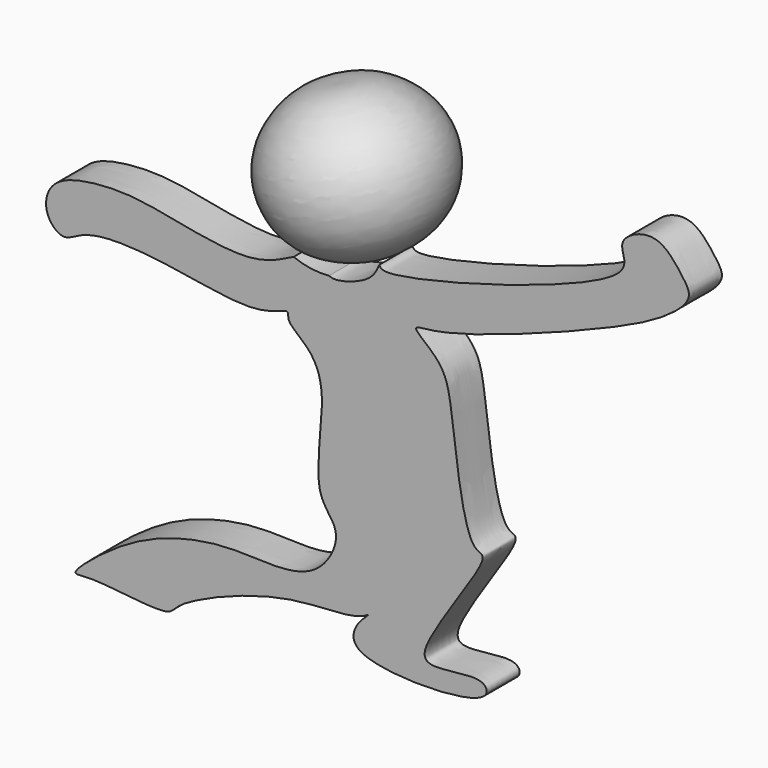
from build123d import *

# Parameters (mm, degrees)
F1_DEPTH = 5.08


with BuildPart() as f1:
    # F0 (on Front) → F1 (new body)
    with BuildSketch(Plane.XZ):
        with BuildLine():
            ThreePointArc((-4.8527362893, 6.3661059449), (-7.062491971, 6.4207185502), (-9.1974332994, 6.9934560415))
            add(Edge.make_bspline(
                [(-9.1974332994, 6.9934560415), (-10.847005278, 6.1528326348), (-14.7905032699, 4.1191135447), (-26.5262904196, 6.9678632721), (-32.214227317, 7.3090132542), (-39.1596533079, 6.2547355041), (-40.1685089723, 1.8483942469), (-37.6128174957, -0.6390182701), (-35.4082346717, 1.1063021348), (-30.7586106131, 1.8892990547), (-21.8589859777, 0.7283912673), (-13.523335543, -0.865974137), (-9.6109019944, 1.315033583), (-10.1460881903, -0.3293658258), (-7.0204940449, -2.2306880576), (-4.8763492574, -6.8728427332), (-7.3022490881, -17.9510720218), (-2.8081016335, -20.7749276487), (-6.3949963743, -27.9187228512), (-15.7506576261, -26.8657965374), (-21.9995301485, -27.5319104965), (-29.6140664479, -30.0258064595), (-37.4789522118, -36.5699769345), (-33.8194344707, -35.5919819147), (-24.3904713669, -37.290246322), (-23.6592695712, -34.8377226954), (-9.7677725452, -28.9551254759), (-2.1443038816, -30.1541082879), (0, -28.7910401821)],
                knots=[0, 0, 0, 0, 0.0376252181, 0.0899083465, 0.1285475121, 0.1667278379, 0.1957733512, 0.2210448034, 0.2441572455, 0.2767937683, 0.3236249421, 0.369664066, 0.3964393821, 0.4100304696, 0.4373207915, 0.4721874787, 0.5220554726, 0.5531735044, 0.59010284, 0.6355119463, 0.6742677382, 0.7200238526, 0.7626551231, 0.7833137326, 0.8302059942, 0.8523565013, 0.9104293819, 0.9591138008, 0.9591138008, 0.9591138008, 0.9591138008], degree=3))
            add(Edge.make_bspline(
                [(0, -28.7910401821), (-0.6320238373, -29.3935636391), (-1.8828971851, -30.5860511518), (-2.2043118764, -34.7675774808), (15.3095172071, -34.6185304895), (14.2859270709, -30.5259266972), (7.3526541903, -32.4785203875), (6.0958519982, -29.5778897986), (15.8136134381, -17.3380769477), (11.8302736825, -17.9063802927), (10.3380415282, -3.3771493941), (9.4058050637, 1.4312819379), (4.6780119149, 4.5229592705), (9.5487440661, 4.186650615), (29.2664615041, 11.4728957012), (36.9021436529, 15.3833970725), (39.9937433129, 18.4218064767), (38.6476136764, 20.5061985976), (35.988300402, 23.9317423083), (32.668527671, 23.2643682639), (31.0517833487, 21.861402529), (31.3715868556, 20.3830395825), (32.5282108323, 16.425420597), (2.2110574204, 7.854941582), (1.4589874384, 9.3227790656), (1.3374934133, 9.5606176896)],
                knots=[0, 0, 0, 0, 0.0308243512, 0.0610106525, 0.135804207, 0.15904469, 0.2071230233, 0.2337648366, 0.3051089289, 0.3274240931, 0.3981317114, 0.4452958266, 0.481392053, 0.5118301503, 0.6018498091, 0.6611286862, 0.695844353, 0.7236326364, 0.7625933577, 0.7960805785, 0.822467841, 0.8441477505, 0.8748120857, 0.9798344436, 1, 1, 1, 1], degree=3))
            add(Edge.make_bspline(
                [(1.3374934133, 9.5606176896), (1.0506332286, 8.9006738883), (0.3815469283, 7.3613896657), (-3.806836944, 5.9938011394), (-4.5923118626, 6.2734036538), (-4.8527362893, 6.3661059449)],
                knots=[0, 0, 0, 0, 0.3340750035, 0.779212383, 1, 1, 1, 1], degree=3))
        make_face()
    extrude(amount=F1_DEPTH)

    # F2 (on Front) → F3 (revolve)
    with BuildSketch(Plane.XZ):
        with BuildLine():
            Line((-2.9172545765, 6.714431569), (-7.9131918028, 24.402750656))
            add(Edge.make_bspline(
                [(-7.9131918028, 24.402750656), (-9.1005745109, 24.1015996763), (-11.693819365, 23.443885678), (-15.3023357122, 19.1571424332), (-16.0425021581, 13.8074018264), (-13.3950964307, 8.8810970298), (-8.7572236244, 6.5276564741), (-4.9189704204, 6.6504122799), (-2.9172545765, 6.714431569)],
                knots=[0, 0, 0, 0, 0.1445973923, 0.3158008289, 0.4854104403, 0.6553366822, 0.8202520815, 1, 1, 1, 1], degree=3))
        make_face()
    revolve(axis=Axis((-5.4152231896, 0, 15.5585911125), (0.2718091023, 0, -0.9623511895)))


solid = f1.part
